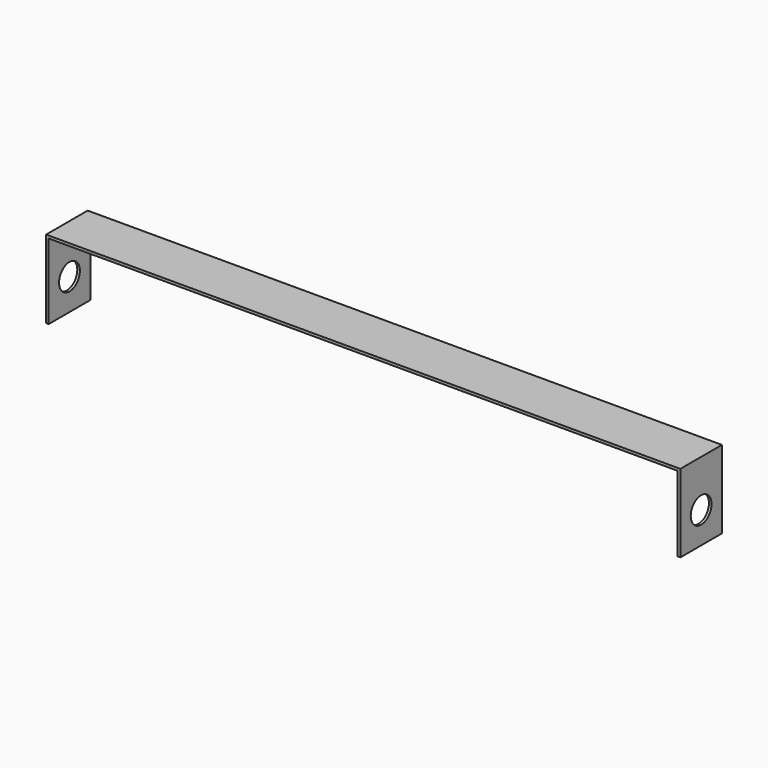
from build123d import *

# Parameters (mm, degrees)
F1_DEPTH = 50
F2_R     = 25
F3_DEPTH = 1220


with BuildPart() as f1:
    # F0 (on Front) → F1 (new body, symmetric)
    with BuildSketch(Plane.XZ):
        Polygon((610, 80), (-610, 80), (-610, -70), (-605, -70), (-605, 75), (605, 75), (605, -70), (610, -70), align=None)
    extrude(amount=F1_DEPTH, both=True)

    # F2 (on face) → F3 (cut, through all)
    with BuildSketch(Plane(origin=(-610, 0, 0), x_dir=(0, -1, 0), z_dir=(-1, 0, 0))):
        with Locations((0, -10)):
            Circle(F2_R)
    extrude(amount=-F3_DEPTH, mode=Mode.SUBTRACT)


solid = f1.part
